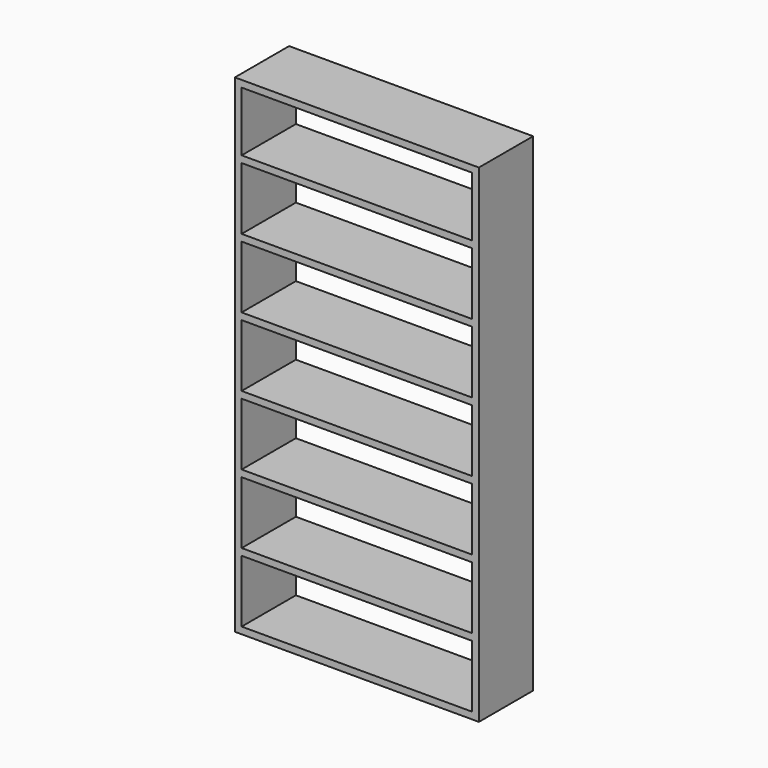
from build123d import *

# Parameters (mm, degrees)
F0_W     = 850
F0_H     = 25
F1_DEPTH = 250


with BuildPart() as f1:
    # F0 (on Front) → F1 (new body)
    with BuildSketch(Plane.XZ):
        Polygon((-450, 0), (450, 0), (450, 255), (425, 255), (425, 25), (-425, 25), (-425, 255), (-450, 255), align=None)
        Polygon((425, 255), (450, 255), (450, 510), (425, 510), (425, 280), align=None)
        Polygon((-450, 510), (-450, 255), (-425, 255), (-425, 280), (-425, 510), align=None)
        Polygon((425, 510), (450, 510), (450, 765), (425, 765), (425, 535), align=None)
        Polygon((-450, 765), (-450, 510), (-425, 510), (-425, 535), (-425, 765), align=None)
        Polygon((425, 765), (450, 765), (450, 1020), (425, 1020), (425, 790), align=None)
        Polygon((-450, 1020), (-450, 765), (-425, 765), (-425, 790), (-425, 1020), align=None)
        Polygon((425, 1020), (450, 1020), (450, 1275), (425, 1275), (425, 1045), align=None)
        Polygon((-450, 1275), (-450, 1020), (-425, 1020), (-425, 1045), (-425, 1275), align=None)
        Polygon((425, 1275), (450, 1275), (450, 1530), (425, 1530), (425, 1300), align=None)
        Polygon((-450, 1530), (-450, 1275), (-425, 1275), (-425, 1300), (-425, 1530), align=None)
        Polygon((425, 1530), (450, 1530), (450, 1800), (-450, 1800), (-450, 1530), (-425, 1530), (-425, 1555), (-425, 1775), (425, 1775), (425, 1555), align=None)
        with Locations((0, 1542.5)):
            Rectangle(F0_W, F0_H)
        with Locations((0, 1287.5)):
            Rectangle(F0_W, F0_H)
        with Locations((0, 1032.5)):
            Rectangle(F0_W, F0_H)
        with Locations((0, 777.5)):
            Rectangle(F0_W, F0_H)
        with Locations((0, 522.5)):
            Rectangle(F0_W, F0_H)
        with Locations((0, 267.5)):
            Rectangle(F0_W, F0_H)
    extrude(amount=F1_DEPTH)


solid = f1.part
